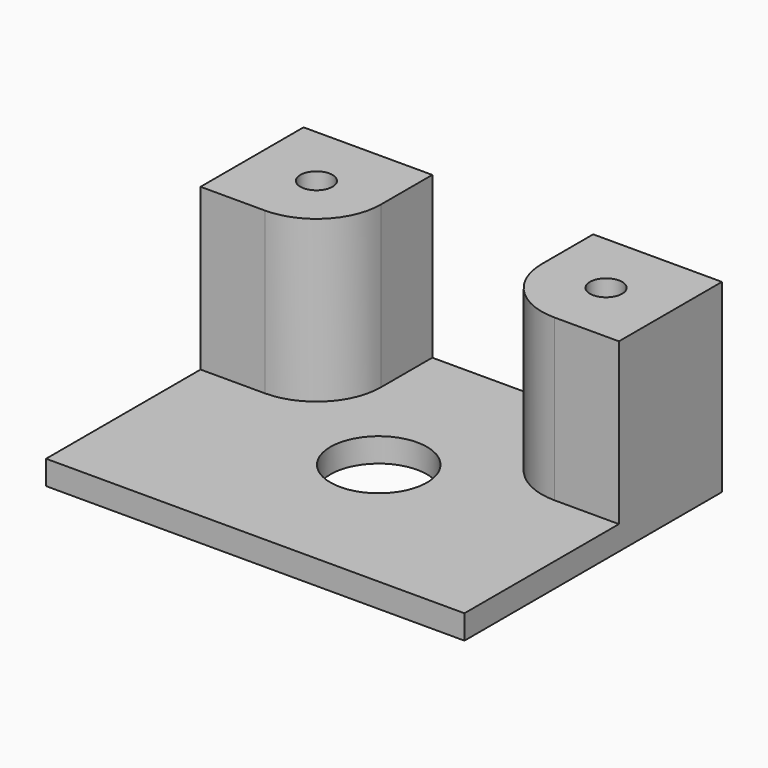
from build123d import *

# Parameters (mm, degrees)
F0_W     = 165.1
F0_H     = 127
F1_DEPTH = 9.525
F3_DEPTH = 63.5
F5_D     = 12.7
F5_DEPTH = 31.75
F5_TIP   = 3.8154649308
F7_D     = 12.7
F7_DEPTH = 31.75
F7_TIP   = 3.8154649308
F9_D     = 38.1


with BuildPart() as f1:
    # F0 (on Top) → F1 (new body)
    with BuildSketch(Plane.XY):
        with Locations((-5.9753443556, 2.5908015668)):
            Rectangle(F0_W, F0_H)
    extrude(amount=F1_DEPTH)

    # F2 (on face) → F3 (join)
    with BuildSketch(Plane.XY.offset(9.525)):
        with BuildLine():
            Line((-37.7253443556, 66.0908015668), (-88.5253443556, 66.0908015668))
            Line((-88.5253443556, 66.0908015668), (-88.5253443556, 15.2908015668))
            Line((-88.5253443556, 15.2908015668), (-63.1253443556, 15.2908015668))
            ThreePointArc((-63.1253443556, 15.2908015668), (-45.1648321135, 22.7302893247), (-37.7253443556, 40.6908015668))
            Line((-37.7253443556, 40.6908015668), (-37.7253443556, 66.0908015668))
        make_face()
        with BuildLine():
            Line((76.5746556444, 66.0908015668), (25.7746556444, 66.0908015668))
            Line((25.7746556444, 66.0908015668), (25.7746556444, 40.6908015668))
            ThreePointArc((25.7746556444, 40.6908015668), (33.2141434022, 22.7302893247), (51.1746556444, 15.2908015668))
            Line((51.1746556444, 15.2908015668), (76.5746556444, 15.2908015668))
            Line((76.5746556444, 15.2908015668), (76.5746556444, 66.0908015668))
        make_face()
    extrude(amount=F3_DEPTH)

    # F5
    with Locations(Plane.XY.offset(73.025)):
        with Locations((-63.1253443556, 40.6908015668)):
            Hole(F5_D / 2, depth=F5_DEPTH)
            with Locations((0, 0, -(F5_DEPTH + F5_TIP / 2))):  # 118° drill point
                Cone(0, F5_D / 2, F5_TIP, mode=Mode.SUBTRACT)

    # F7
    with Locations(Plane.XY.offset(73.025)):
        with Locations((51.1746556444, 40.6908015668)):
            Hole(F7_D / 2, depth=F7_DEPTH)
            with Locations((0, 0, -(F7_DEPTH + F7_TIP / 2))):  # 118° drill point
                Cone(0, F7_D / 2, F7_TIP, mode=Mode.SUBTRACT)

    # F9 (through all)
    with Locations(Plane.XY.offset(9.525)):
        with Locations((-5.9753443556, 0)):
            Hole(F9_D / 2)


solid = f1.part
